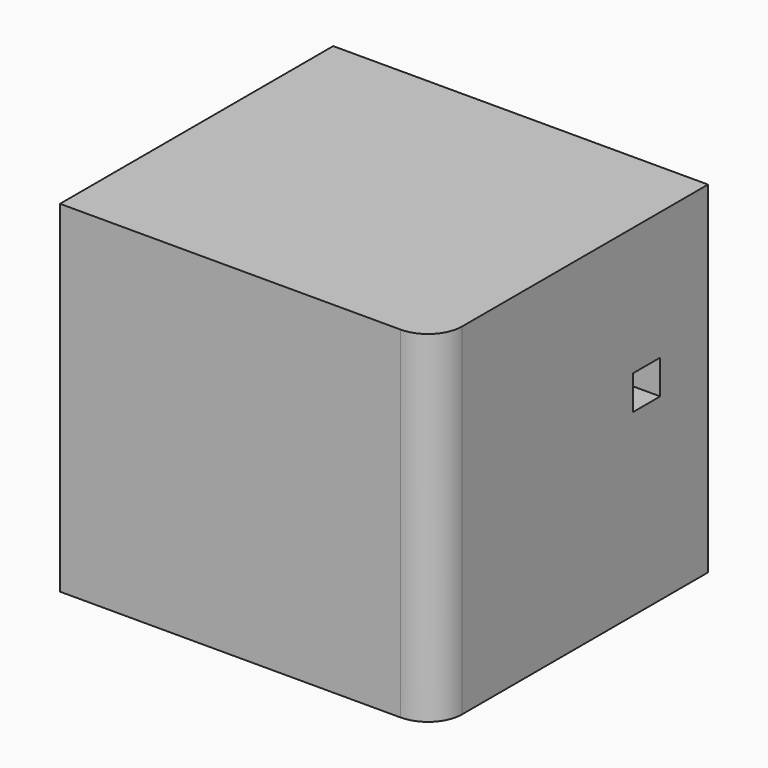
from build123d import *

# Parameters (mm, degrees)
F1_DEPTH = 2540
F2_W     = 254
F2_H     = 254
F3_DEPTH = 2540


with BuildPart() as f1:
    # F0 (on Top) → F1 (new body)
    with BuildSketch(Plane.XY):
        with BuildLine():
            Line((1264.319774, 753.896932), (-1523.330226, 753.896932))
            Line((-1523.330226, 753.896932), (-1523.330226, -1786.103068))
            Line((-1523.330226, -1786.103068), (1010.319774, -1786.103068))
            ThreePointArc((1010.319774, -1786.103068), (1189.924897, -1711.708191), (1264.319774, -1532.103068))
            Line((1264.319774, -1532.103068), (1264.319774, 753.896932))
        make_face()
    extrude(amount=F1_DEPTH)

    # F2 (on face) → F3 (cut)
    with BuildSketch(Plane.YZ.offset(1264.319774)):
        with Locations((182.396932, 1460.5)):
            Rectangle(F2_W, F2_H)
    extrude(amount=-F3_DEPTH, mode=Mode.SUBTRACT)


solid = f1.part
